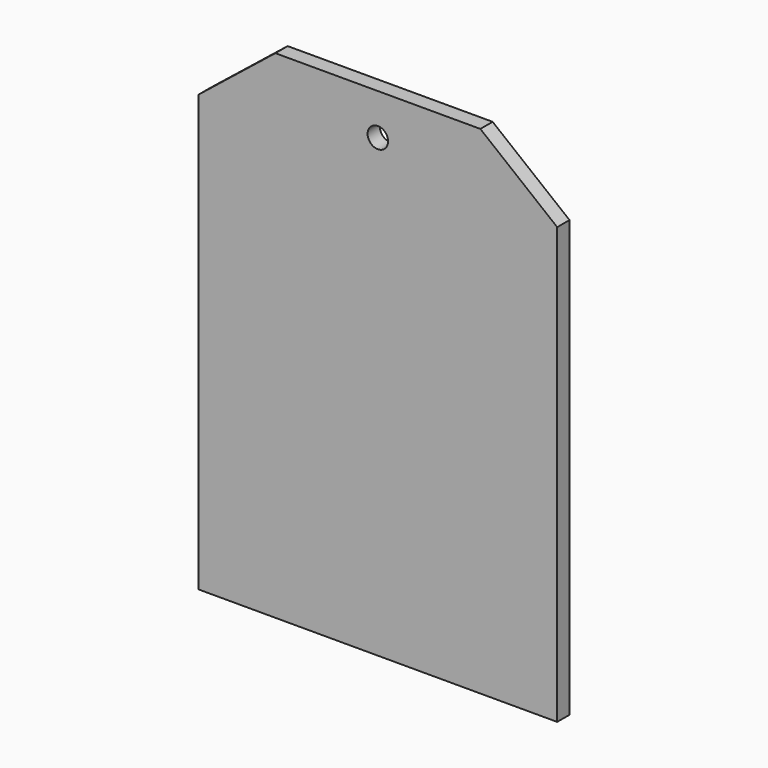
from build123d import *

# Parameters (mm, degrees)
F0_R     = 2
F1_DEPTH = 3
F2_SIZE2 = 12
F2_SIZE  = 15


with BuildPart() as f1:
    # F0 (on Front) → F1 (new body)
    with BuildSketch(Plane.XZ):
        Polygon((-35, 0), (0, 0), (35, 0), (35, 97), (0, 97), (-35, 97), align=None)
        with Locations((0, 89)):
            Circle(F0_R, mode=Mode.SUBTRACT)
    extrude(amount=-F1_DEPTH)

    # F2
    f2_edges = [f1.edges().sort_by_distance(p)[0] for p in [
        (-35, 1.5, 97),
        (35, 1.5, 97),
    ]]
    f2_side = f1.faces().sort_by_distance((0, 1.5, 97))[0]
    chamfer(f2_edges, length=F2_SIZE, length2=F2_SIZE2, reference=f2_side)


solid = f1.part
